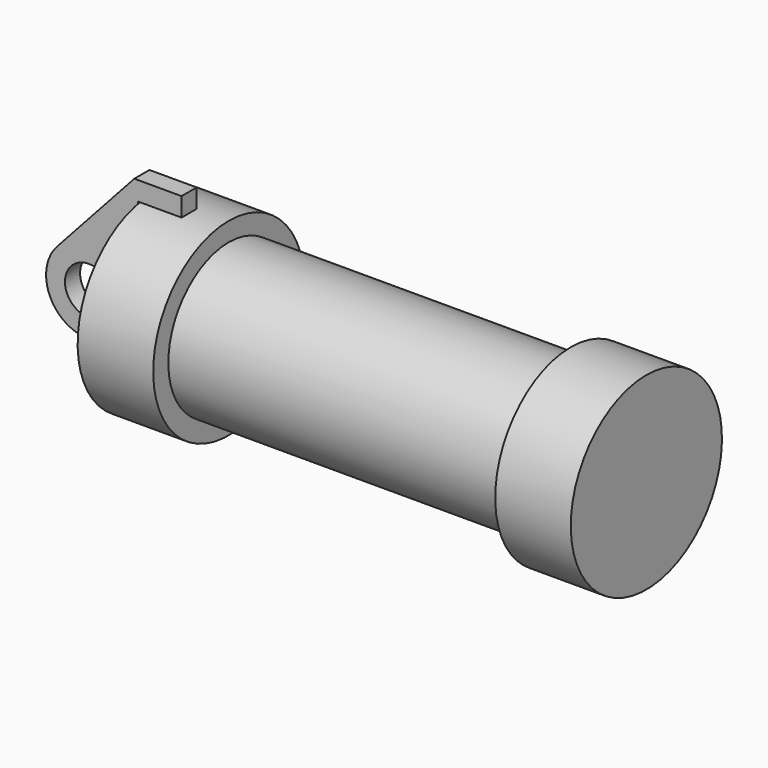
from build123d import *

# Parameters (mm, degrees)
F0_W     = 5.842
F0_H     = 12.7
F0_R     = 3.175
F2_DEPTH = 2.54


with BuildPart() as f1:
    # F0 (on Front) → F1 (revolve)
    with BuildSketch(Plane.XZ):
        Polygon((5.842, 12.7), (5.842, 0), (66.294, 0), (66.294, 12.7), (56.134, 12.7), (56.134, 10.16), (10.16, 10.16), (10.16, 12.7), align=None)
        with Locations((2.921, 6.35)):
            Rectangle(F0_W, F0_H)
    revolve(axis=Axis((33.147, 0, 0), (-1, 0, 0)))


with BuildPart() as f2:
    # F0 (on Front) → F2 (new body)
    with BuildSketch(Plane.XZ):
        with BuildLine():
            ThreePointArc((-8.1826630726, -5.5069827884), (-3.1957909266, -4.5493385486), (-0.9398, 0))
            ThreePointArc((-0.9398, 0), (-4.5919612295, 5.3297205562), (-10.8806298187, 3.8475430269))
            ThreePointArc((-10.8806298187, 3.8475430269), (-12.1459778134, -1.5837270034), (-8.1826630726, -5.5069827884))
        make_face()
        with Locations((-6.6548, 0)):
            Circle(F0_R, mode=Mode.SUBTRACT)
        with BuildLine():
            Line((5.842, 0), (0, 0))
            Line((0, 0), (-0.9398, 0))
            ThreePointArc((-0.9398, 0), (-3.1957909266, -4.5493385486), (-8.1826630726, -5.5069827884))
            Line((-8.1826630726, -5.5069827884), (5.842, -9.398))
            Line((5.842, -9.398), (5.842, 0))
        make_face()
        with BuildLine():
            Line((-0.9398, 0), (0, 0))
            Line((0, 0), (0, 12.7))
            Line((0, 12.7), (5.842, 12.7))
            Line((5.842, 12.7), (5.842, 15.24))
            Line((5.842, 15.24), (-0.508, 15.24))
            Line((-0.508, 15.24), (-10.8806298187, 3.8475430269))
            ThreePointArc((-10.8806298187, 3.8475430269), (-4.5919612295, 5.3297205562), (-0.9398, 0))
        make_face()
    extrude(amount=F2_DEPTH)


solid = Compound([f1.part, f2.part])
